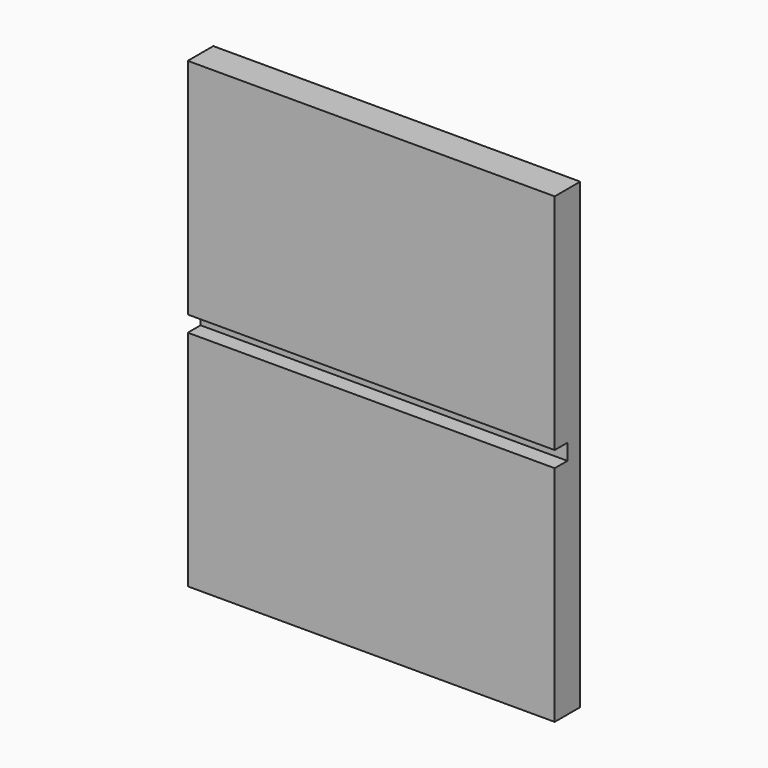
from build123d import *

# Parameters (mm, degrees)
F0_W     = 115
F0_H     = 5
F1_DEPTH = 5
F0_H_2   = 70
F2_DEPTH = 10


with BuildPart() as f1:
    # F0 (on Front) → F1 (new body)
    with BuildSketch(Plane.XZ):
        with Locations((-59.703109, -2.5)):
            Rectangle(F0_W, F0_H)
    extrude(amount=F1_DEPTH)

    # F0 (on Front) → F2 (join)
    with BuildSketch(Plane.XZ):
        with Locations((-59.703109, 35)):
            Rectangle(F0_W, F0_H_2)
        with Locations((-59.703109, -40)):
            Rectangle(F0_W, F0_H_2)
    extrude(amount=F2_DEPTH)


solid = f1.part
